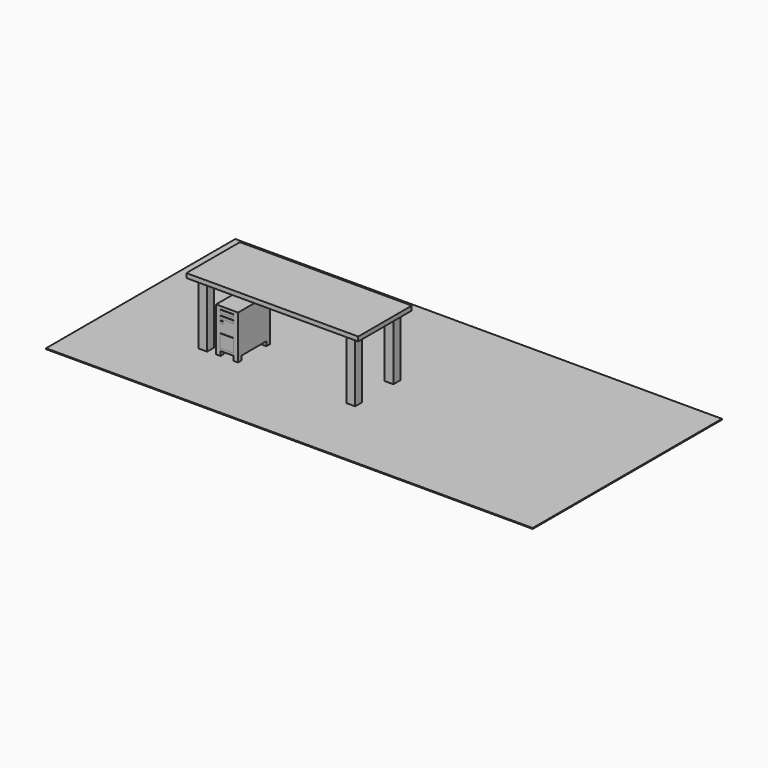
from build123d import *

# Parameters (mm, degrees)
F0_W      = 25
F0_H      = 45
F1_DEPTH  = 45
F2_W      = 37.02273
F2_H      = 36.818184
F3_DEPTH  = 2
F4_W      = 15
F4_H      = 3
F5_DEPTH  = 0.5
F6_W      = 15
F6_H      = 15
F7_DEPTH  = 0.5
F8_W      = 3
F8_H      = 3
F9_DEPTH  = 0.5
F11_W     = 5
F11_H     = 5
F12_DEPTH = 5
F13_W     = 552.581966
F13_H     = 268.521279
F13_W_2   = 5
F13_H_2   = 5
F14_DEPTH = 1
F15_W     = 10
F15_H     = 10
F16_DEPTH = 70
F17_W     = 195.110477
F17_H     = 75.93685
F18_DEPTH = 5


with BuildPart() as f1:
    # F0 (on Front) → F1 (new body)
    with BuildSketch(Plane.XZ):
        with Locations((-53.284094, -4.754224)):
            Rectangle(F0_W, F0_H)
    extrude(amount=F1_DEPTH)

    # F11 (on face) → F12 (join)
    with BuildSketch(Plane(origin=(0, 0, -27.254224), x_dir=(1, 0, 0), z_dir=(0, 0, -1))):
        with Locations((-63.284094, 42.5)):
            Rectangle(F11_W, F11_H)
        with Locations((-43.284094, 42.5)):
            Rectangle(F11_W, F11_H)
        with Locations((-63.284094, 2.5)):
            Rectangle(F11_W, F11_H)
        with Locations((-43.284094, 2.5)):
            Rectangle(F11_W, F11_H)
    extrude(amount=F12_DEPTH)


with BuildPart() as f3:
    # F2 (on face) → F3 (new body)
    with BuildSketch(Plane(origin=(-65.784094, 0, 0), x_dir=(0, -1, 0), z_dir=(-1, 0, 0))):
        with Locations((22.602276, -4.704546)):
            Rectangle(F2_W, F2_H)
    extrude(amount=F3_DEPTH)


with BuildPart() as f5:
    # F4 (on face) → F5 (new body)
    with BuildSketch(Plane.XZ.offset(45)):
        with Locations((-53.386366, 12.826705)):
            Rectangle(F4_W, F4_H)
        with Locations((-53.386366, 6.826706)):
            Rectangle(F4_W, F4_H)
    extrude(amount=F5_DEPTH)


with BuildPart() as f7:
    # F6 (on face) → F7 (new body)
    with BuildSketch(Plane.XZ.offset(45)):
        with Locations((-53.284094, -16.875001)):
            Rectangle(F6_W, F6_H)
    extrude(amount=F7_DEPTH)


with BuildPart() as f9:
    # F8 (on face) → F9 (new body)
    with BuildSketch(Plane.XZ.offset(45)):
        with Locations((-59.321633, 1.909961)):
            Rectangle(F8_W, F8_H)
    extrude(amount=F9_DEPTH)


with BuildPart() as f14:
    # F13 (on face) → F14 (new body)
    with BuildSketch(Plane(origin=(0, 0, -32.254224), x_dir=(1, 0, 0), z_dir=(0, 0, -1))):
        with Locations((85.371703, -4.351034)):
            Rectangle(F13_W, F13_H)
        with Locations((-43.284094, 42.5)):
            Rectangle(F13_W_2, F13_H_2, mode=Mode.SUBTRACT)
    extrude(amount=F14_DEPTH)


with BuildPart() as f16:
    # F15 (on face) → F16 (new body)
    with BuildSketch(Plane.XY.offset(-32.254224)):
        with Locations((-80.297943, 13.362299)):
            Rectangle(F15_W, F15_H)
        with Locations((87.787208, 13.362299)):
            Rectangle(F15_W, F15_H)
        with Locations((-80.297943, -40.907661)):
            Rectangle(F15_W, F15_H)
        with Locations((87.787208, -40.907661)):
            Rectangle(F15_W, F15_H)
    extrude(amount=F16_DEPTH)


with BuildPart() as f18:
    # F17 (on face) → F18 (new body)
    with BuildSketch(Plane.XY.offset(37.745776)):
        with Locations((3.621507, -13.997344)):
            Rectangle(F17_W, F17_H)
    extrude(amount=F18_DEPTH)


solid = Compound([f1.part, f3.part, f5.part, f7.part, f9.part, f14.part, f16.part, f18.part])
